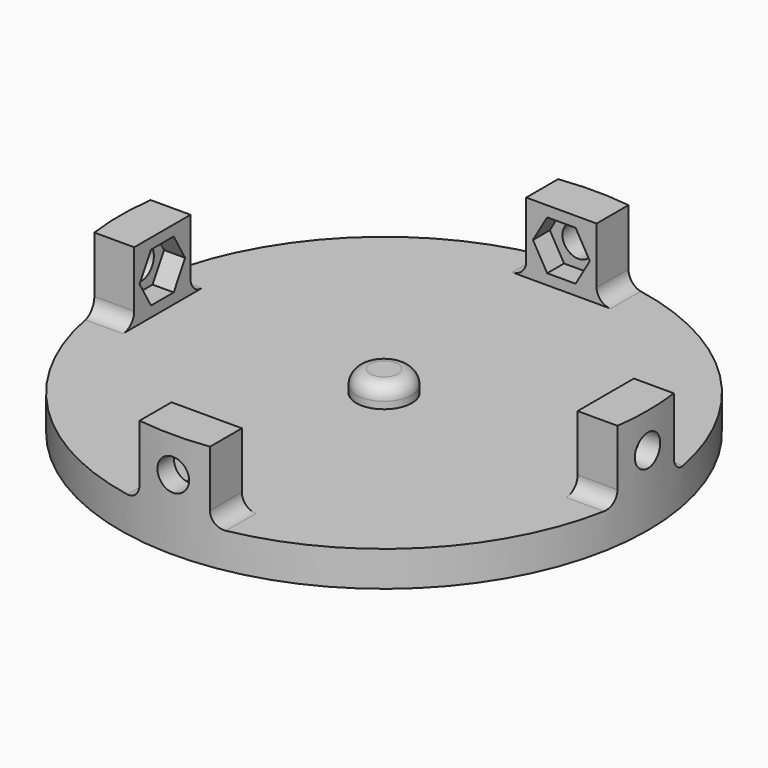
from build123d import *

# Parameters (mm, degrees)
SKETCH_R        = 37.5
PAD_DEPTH       = 5
SKETCH001_W     = 10
SKETCH001_H     = 6
SKETCH001_W_2   = 6
SKETCH001_H_2   = 10
PAD001_DEPTH    = 10
POCKET_DEPTH    = 3
POCKET001_DEPTH = 3
POCKET002_DEPTH = 3
POCKET003_DEPTH = 3
SKETCH006_R     = 2.25
POCKET004_DEPTH = 75
SKETCH007_R     = 2.25
POCKET005_DEPTH = 75
SKETCH008_R     = 2.65
POCKET006_DEPTH = 5
SKETCH009_W     = 3.74627
SKETCH009_H     = 0.45
PAD002_DEPTH    = 5
SKETCH010_R     = 40
SKETCH010_R_2   = 37.5
POCKET007_DEPTH = 15
FILLET_R        = 2
SKETCH011_R     = 3.951065
PAD003_DEPTH    = 3
FILLET001_R     = 2


with BuildPart() as part:
    # Sketch → Pad (new body)
    with BuildSketch(Plane.XY):
        Circle(SKETCH_R)
    extrude(amount=PAD_DEPTH)

    # Sketch001 (on Face3 of Pad) → Pad001 (join)
    with BuildSketch(Plane.XY.offset(5)):
        with Locations((0, 34.5)):
            Rectangle(SKETCH001_W, SKETCH001_H)
        with Locations((0, -34.5)):
            Rectangle(SKETCH001_W, SKETCH001_H)
        with Locations((-34.5, 0)):
            Rectangle(SKETCH001_W_2, SKETCH001_H_2)
        with Locations((34.5, 0)):
            Rectangle(SKETCH001_W_2, SKETCH001_H_2)
    extrude(amount=PAD001_DEPTH)

    # Sketch002 (on Face20 of Pad001) → Pocket (cut)
    with BuildSketch(Plane.YZ.offset(-31.5)):
        Polygon((4.041452, 10), (2.020726, 13.5), (-2.020726, 13.5), (-4.041452, 10), (-2.020726, 6.5), (2.020726, 6.5), align=None)
    extrude(amount=-POCKET_DEPTH, mode=Mode.SUBTRACT)

    # Sketch003 (on Face23 of Pocket) → Pocket001 (cut)
    with BuildSketch(Plane.XZ.offset(-31.5)):
        Polygon((4.041452, 10), (2.020726, 13.5), (-2.020726, 13.5), (-4.041452, 10), (-2.020726, 6.5), (2.020726, 6.5), align=None)
    extrude(amount=-POCKET001_DEPTH, mode=Mode.SUBTRACT)

    # Sketch004 (on Face15 of Pocket001) → Pocket002 (cut)
    with BuildSketch(Plane(origin=(31.5, 0, 0), x_dir=(0, -1, 0), z_dir=(-1, 0, 0))):
        Polygon((4.041452, 10), (2.020726, 13.5), (-2.020726, 13.5), (-4.041452, 10), (-2.020726, 6.5), (2.020726, 6.5), align=None)
    extrude(amount=-POCKET002_DEPTH, mode=Mode.SUBTRACT)

    # Sketch005 (on Face17 of Pocket002) → Pocket003 (cut)
    with BuildSketch(Plane(origin=(0, -31.5, 0), x_dir=(-1, 0, 0), z_dir=(0, 1, 0))):
        Polygon((4.041452, 10), (2.020726, 13.5), (-2.020726, 13.5), (-4.041452, 10), (-2.020726, 6.5), (2.020726, 6.5), align=None)
    extrude(amount=-POCKET003_DEPTH, mode=Mode.SUBTRACT)

    # Sketch006 (on Face12 of Pocket003) → Pocket004 (cut)
    with BuildSketch(Plane.YZ.offset(37.5)):
        with Locations((0, 10)):
            Circle(SKETCH006_R)
    extrude(amount=-POCKET004_DEPTH, mode=Mode.SUBTRACT)

    # Sketch007 (on Face25 of Pocket004) → Pocket005 (cut)
    with BuildSketch(Plane.XZ.offset(37.5)):
        with Locations((0, 10)):
            Circle(SKETCH007_R)
    extrude(amount=-POCKET005_DEPTH, mode=Mode.SUBTRACT)

    # Sketch008 (on Face2 of Pocket005) → Pocket006 (cut)
    with BuildSketch(Plane(origin=(0, 0, 0), x_dir=(1, 0, 0), z_dir=(0, 0, -1))):
        Circle(SKETCH008_R)
    extrude(amount=-POCKET006_DEPTH, mode=Mode.SUBTRACT)

    # Sketch009 (on Face2 of Pocket006) → Pad002 (join)
    with BuildSketch(Plane(origin=(0, 0, 0), x_dir=(1, 0, 0), z_dir=(0, 0, -1))):
        with Locations((-0.090507, 2.525)):
            Rectangle(SKETCH009_W, SKETCH009_H)
    extrude(amount=-PAD002_DEPTH)

    # Sketch010 (on Face62 of Pad002) → Pocket007 (cut)
    with BuildSketch(Plane(origin=(0, 0, 0), x_dir=(1, 0, 0), z_dir=(0, 0, -1))):
        Circle(SKETCH010_R)
        Circle(SKETCH010_R_2, mode=Mode.SUBTRACT)
    extrude(amount=-POCKET007_DEPTH, mode=Mode.SUBTRACT)

    # Fillet
    fillet_edges = [part.edges().sort_by_distance(p)[0] for p in [
        (5, -34.332586, 5),
        (-5, -34.332586, 5),
        (-34.332586, -5, 5),
        (34.332586, -5, 5),
        (5, 34.332586, 5),
        (34.332586, 5, 5),
        (-34.332586, 5, 5),
        (-5, 34.332586, 5),
    ]]
    fillet(fillet_edges, radius=FILLET_R)

    # Sketch011 (on Face1 of Fillet) → Pad003 (join)
    with BuildSketch(Plane.XY.offset(5)):
        Circle(SKETCH011_R)
    extrude(amount=PAD003_DEPTH)

    # Fillet001
    fillet001_edges = [part.edges().sort_by_distance(p)[0] for p in [
        (-3.951065, 0, 8),
    ]]
    fillet(fillet001_edges, radius=FILLET001_R)


solid = part.part
